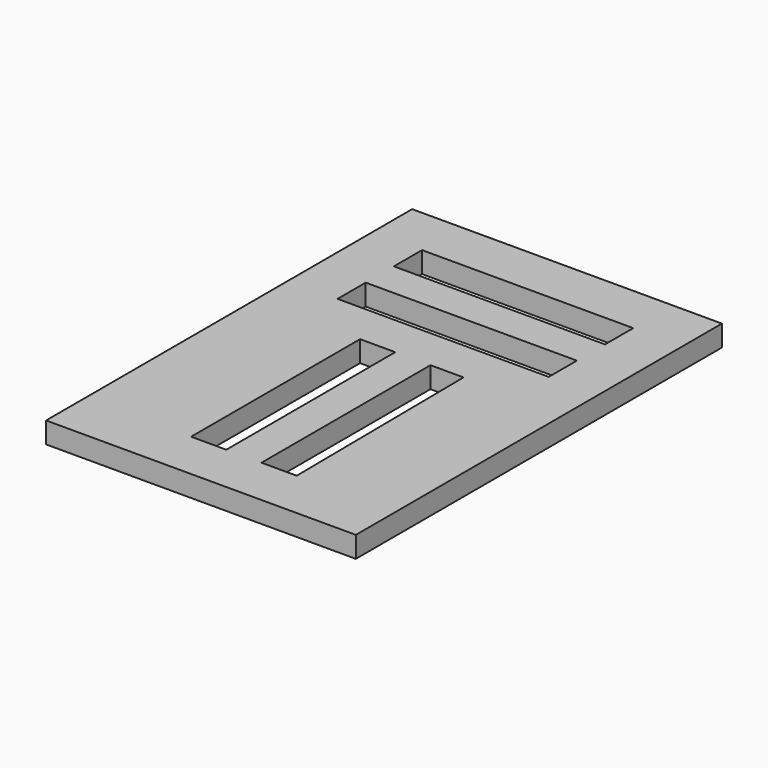
from build123d import *

# Parameters (mm, degrees)
F0_W     = 5
F0_H     = 30
F0_W_2   = 30
F0_H_2   = 5
F1_DEPTH = 3


with BuildPart() as f1:
    # F0 (on Top) → F1 (new body)
    with BuildSketch(Plane.XY):
        Polygon((-7, -32.5), (22, -32.5), (22, 32.5), (-22, 32.5), (-22, 25.5), (-22, -32.5), align=None)
        with Locations((-4.5, -10.5)):
            Rectangle(F0_W, F0_H, mode=Mode.SUBTRACT)
        Polygon((8, -25.5), (3, -25.5), (3, 4.4985), (7.700015, 4.4985), align=None, mode=Mode.SUBTRACT)
        with Locations((0, 13)):
            Rectangle(F0_W_2, F0_H_2, mode=Mode.SUBTRACT)
        with Locations((0, 23)):
            Rectangle(F0_W_2, F0_H_2, mode=Mode.SUBTRACT)
    extrude(amount=F1_DEPTH)


solid = f1.part
